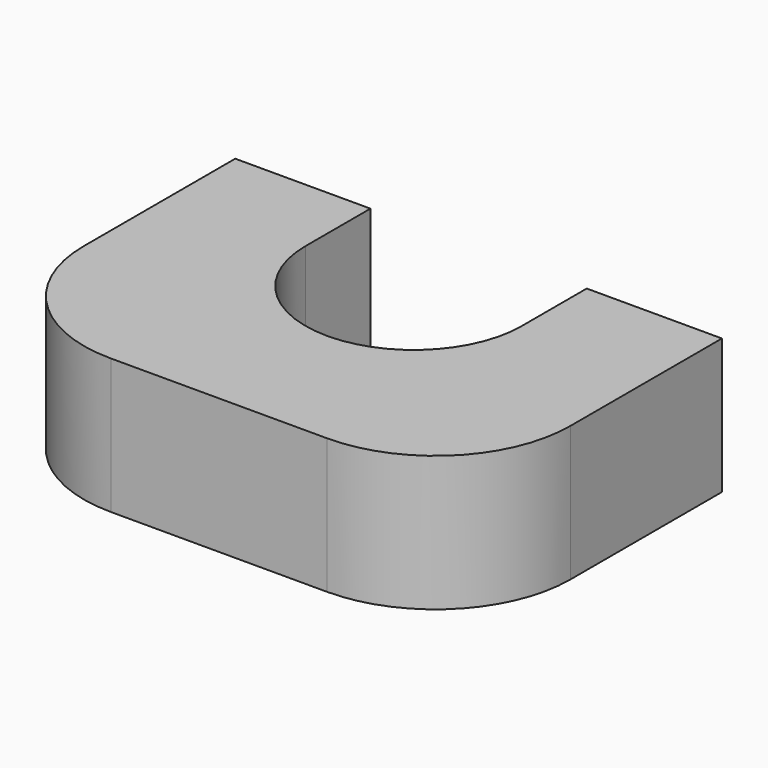
from build123d import *

# Parameters (mm, degrees)
F1_DEPTH = 10


with BuildPart() as f1:
    # F0 (on Top) → F1 (new body)
    with BuildSketch(Plane.XY):
        with BuildLine():
            ThreePointArc((-17.999998, -8), (-15.071066, -15.071068), (-7.999998, -18))
            Line((-7.999998, -18), (8.000002, -18))
            ThreePointArc((8.000002, -18), (15.071069, -15.071068), (18.000002, -8))
            Line((18.000002, -8), (18.000002, 0))
            Line((18.000002, 0), (18.000002, 6))
            Line((18.000002, 6), (8, 6))
            Line((8, 6), (8, 0))
            Line((8, 0), (7.999996, -0.008451))
            ThreePointArc((7.999996, -0.008451), (-0.006815, -7.999997), (-7.999998, 0.005179))
            Line((-7.999998, 0.005179), (-7.999998, 6))
            Line((-7.999998, 6), (-17.999998, 6))
            Line((-17.999998, 6), (-17.999998, 0))
            Line((-17.999998, 0), (-17.999998, -8))
        make_face()
    extrude(amount=F1_DEPTH)


solid = f1.part
